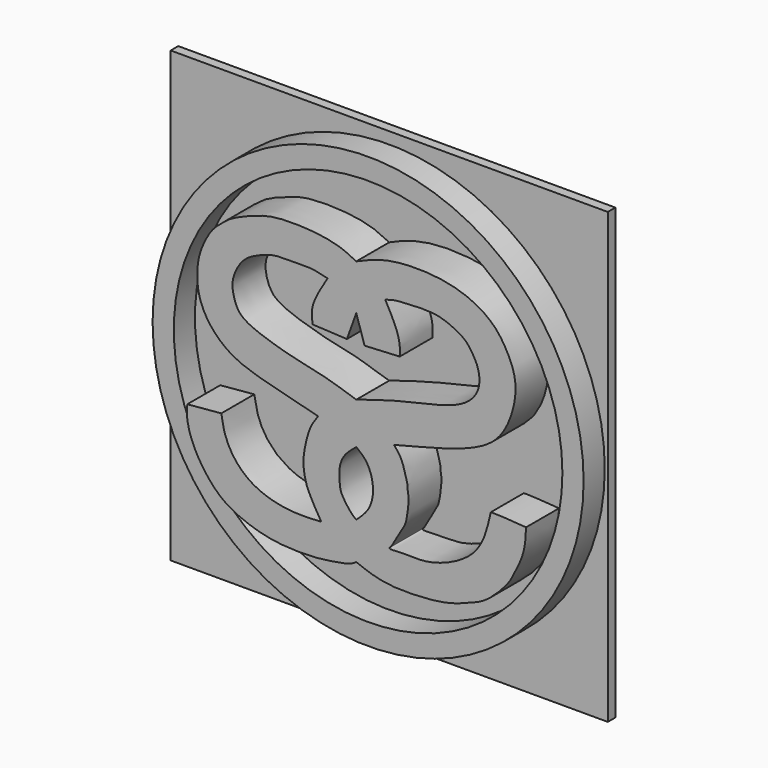
from build123d import *

# Parameters (mm, degrees)
F2_DEPTH = 12.192
F0_R     = 51.8159960218
F0_R_2   = 46.7143522427
F3_DEPTH = 8.636
F4_W     = 52.550945431
F4_H     = 107.9424871132
F4_W_2   = 52.5509491563
F5_DEPTH = 2.286


with BuildPart() as f2:
    # F1 (on Front) → F2 (new body)
    with BuildSketch(Plane.XZ):
        with BuildLine():
            add(Edge.make_bspline(
                [(0, 34.5519892871), (1.8636551367, 35.3682879789), (5.8624587577, 37.1198020334), (14.0515556016, 38.1297289695), (24.4370441691, 37.1954468039), (32.5199308373, 33.0254458176), (36.3462355524, 27.5668970525), (39.1498419, 20.9074591969), (36.9325163196, 11.8163155109), (32.8908786108, 6.4767150827), (26.4048755311, 3.3673698207), (19.1638661043, 1.2345521392), (12.6152715008, -0.4342548338), (9.0735172853, -1.3368155342)],
                knots=[0, 0, 0, 0, 0.0808101023, 0.1733924498, 0.2783212058, 0.3742662381, 0.4562013177, 0.5416025842, 0.6384026023, 0.7212377579, 0.805849764, 0.8949954214, 1, 1, 1, 1], degree=3))
            add(Edge.make_bspline(
                [(0, 34.5519892871), (-1.1805786957, 35.154116431), (-3.870472007, 36.526034951), (-10.4373018154, 37.7453348505), (-19.5412992264, 37.8401527719), (-24.2904752801, 36.376923106), (-29.9273966235, 34.1635085314), (-32.458794007, 32.0066774867), (-35.2055331247, 29.7154093668), (-37.8890127864, 24.0553858061), (-38.2765328975, 20.1535652977), (-38.1940426413, 15.9507278176), (-36.5403337735, 11.2818749594), (-33.0079028254, 7.0104879258), (-28.7965620817, 4.2981589294), (-23.7264390156, 2.4003928514), (-12.5123644542, -0.3063020827), (-10.0439856054, -0.9700598603), (-9.1785937548, -1.202767482)],
                knots=[0, 0, 0, 0, 0.0553075256, 0.1260156088, 0.2075084565, 0.2692905852, 0.334803653, 0.3837999273, 0.4346266679, 0.5017260102, 0.5559412564, 0.6105276622, 0.6706208836, 0.7342253921, 0.7932745479, 0.8583421756, 0.9503360163, 1, 1, 1, 1], degree=3))
            add(Edge.make_bspline(
                [(-9.1785937548, -1.202767482), (-9.845001483, -2.1190641409), (-11.324834039, -4.153802889), (-12.5822585435, -9.5375499396), (-12.8170646598, -12.8275421798), (-12.0704327469, -16.8687144004), (-10.2854667918, -20.21715554), (-9.0312879882, -22.2811018337), (-8.4140896797, -23.2967976481)],
                knots=[0, 0, 0, 0, 0.1598677995, 0.3550042478, 0.5097927259, 0.6767124276, 0.8409058244, 1, 1, 1, 1], degree=3))
            add(Edge.make_bspline(
                [(-32.4539020658, -8.1718796864), (-32.2437107397, -9.468656053), (-31.7956531111, -12.2329496834), (-29.5062684828, -17.0606713529), (-24.250316111, -21.7487802231), (-15.6530451707, -23.778242598), (-10.7547209753, -23.452467222), (-8.4140896797, -23.2967976481)],
                knots=[0, 0, 0, 0, 0.1602092529, 0.3415125605, 0.550526587, 0.7852221505, 1, 1, 1, 1], degree=3))
            add(Edge.make_bspline(
                [(-40.6272262335, -8.9019350708), (-37.9027848442, -8.658583276), (-35.178343455, -8.4152314812), (-32.4539020658, -8.1718796864)],
                knots=[0, 0, 0, 0, 8.2058642942, 8.2058642942, 8.2058642942, 8.2058642942], degree=3))
            add(Edge.make_bspline(
                [(-40.6272262335, -8.9019350708), (-40.7039255948, -9.8997054018), (-40.8879573905, -12.2937470539), (-38.9887081595, -18.3667007665), (-34.1604688217, -24.9664170941), (-29.7808537842, -27.9540761907), (-24.4667808828, -30.0704043775), (-18.5901521679, -31.3941922774), (-10.1765970791, -31.5810424479), (-4.7144720713, -30.6312893302), (-1.4432548208, -30.0632820351), (-0.42666285, -29.3697934955), (0, -29.0787369013)],
                knots=[0, 0, 0, 0, 0.079258525, 0.1901722312, 0.3166448276, 0.4181510198, 0.5216121212, 0.6311902517, 0.7597432605, 0.8651567625, 0.9434063994, 1, 1, 1, 1], degree=3))
            add(Edge.make_bspline(
                [(40.8171638846, -8.4643382579), (40.7381572513, -10.3886347037), (40.5818547594, -14.1955597309), (37.8007214389, -19.4731405672), (36.6885201937, -21.7714592565), (31.7726372213, -27.0288617791), (27.6387825515, -28.7435724779), (22.102705484, -30.8435558294), (15.0800879875, -31.5581391259), (6.3556985515, -31.5670864848), (2.0280278434, -29.8727396688), (0, -29.0787369013)],
                knots=[0, 0, 0, 0, 0.1109520826, 0.219501658, 0.295270297, 0.4147541267, 0.5138746024, 0.6228956869, 0.7459859702, 0.8809642508, 1, 1, 1, 1], degree=3))
            add(Edge.make_bspline(
                [(32.3493741453, -8.0170677975), (32.7560172129, -8.0061735838), (34.0423102648, -7.9717130151), (38.0657065377, -8.2642693827), (40.8171638846, -8.4643382579)],
                knots=[0, 0, 0, 0, 0.3161356326, 1, 1, 1, 1], degree=3))
            add(Edge.make_bspline(
                [(8.4034176543, -23.0798069388), (8.1716431348, -23.2808839836), (7.489829636, -23.8723944038), (10.8184358189, -23.5426576033), (13.4294921878, -23.6565616212), (17.31872678, -23.639786504), (22.578698228, -22.0248367485), (27.7738699264, -18.9079301104), (30.8878578174, -14.426891942), (31.8445724527, -10.2309945362), (32.3493741453, -8.0170677975)],
                knots=[0, 0, 0, 0, 0.0513085494, 0.15093489, 0.2615075902, 0.3844275026, 0.5344029929, 0.6903308064, 0.8366058934, 1, 1, 1, 1], degree=3))
            add(Edge.make_bspline(
                [(9.0735172853, -1.3368155342), (9.7061423309, -2.0843355969), (11.0208680345, -3.6378369122), (11.8395221763, -6.9969320444), (12.3803559262, -8.7094847063), (12.2073156715, -9.4392341122), (12.870261523, -11.6740653845), (12.1583492165, -15.1253047377), (12.048928336, -17.1494410568), (9.6917273766, -20.7396116302), (8.8023141426, -22.3552174443), (8.4034176543, -23.0798069388)],
                knots=[0, 0, 0, 0, 0.1220706164, 0.2536879911, 0.344786687, 0.4021461329, 0.5068555032, 0.6386515479, 0.7406218126, 0.8836704424, 1, 1, 1, 1], degree=3))
        make_face()
        with BuildLine():
            add(Edge.make_bspline(
                [(0, -4.7366642393), (-0.8923299318, -5.4519225199), (-2.6853114951, -6.8891094444), (-4.2840151362, -9.9813507511), (-3.9756274703, -14.1751850766), (-3.6863272327, -15.7550905834), (-1.4658460314, -19.0345296128), (-0.4271764166, -19.8149706478), (0, -20.1359447092)],
                knots=[0, 0, 0, 0, 0.1784962071, 0.358657036, 0.5518544442, 0.6796134014, 0.868233751, 1, 1, 1, 1], degree=3))
            add(Edge.make_bspline(
                [(0, -4.7366642393), (0.8178810071, -5.3781655006), (2.4957424384, -6.6941885103), (3.895115331, -9.9620274658), (4.2231264624, -13.6337500787), (3.0799665013, -17.2831269958), (1.0487220782, -19.1645663127), (0, -20.1359447092)],
                knots=[0, 0, 0, 0, 0.1860691729, 0.3817160272, 0.583005201, 0.7847075186, 1, 1, 1, 1], degree=3))
        make_face(mode=Mode.SUBTRACT)
        with BuildLine():
            Line((-2.2555692121, 17.3729152447), (0, 23.5926937312))
            Line((0, 23.5926937312), (2.0053184126, 17.3591729254))
            Line((2.0053184126, 17.3591729254), (2.2726688347, 17.3729152447))
            Line((2.2726688347, 17.3729152447), (10.448188521, 17.7931524813))
            add(Edge.make_bspline(
                [(10.448188521, 17.7931524813), (10.4877243033, 18.5459923798), (10.5754023875, 20.2155574197), (9.7251992605, 23.6826678169), (7.9666868287, 26.8970323069), (6.9718230516, 28.7155322731)],
                knots=[0, 0, 0, 0, 0.2628765565, 0.5829785448, 1, 1, 1, 1], degree=3))
            add(Edge.make_bspline(
                [(6.9718230516, 28.7155322731), (7.8123734401, 28.9839837268), (9.627078595, 29.5635566395), (13.6825187364, 29.4927544947), (14.9575104412, 29.7176313033), (19.3674595149, 29.7442916027), (23.0439312051, 28.3186159994), (26.3217788275, 26.5939647856), (28.0571479735, 24.0335753571), (29.5261603856, 21.3606014643), (29.8859960024, 17.113140494), (26.9766146333, 13.0601828898), (20.6414514245, 10.5905711333), (12.6709386277, 9.0378098477), (5.0545437914, 6.9177483188), (1.5631505037, 5.7877597681), (0, 5.2818465047)],
                knots=[0, 0, 0, 0, 0.0584910726, 0.1262792243, 0.1671287521, 0.2373257254, 0.3077930861, 0.373119716, 0.432733923, 0.4927463323, 0.5614910927, 0.6352832911, 0.7241131949, 0.8240596834, 0.9212288127, 1, 1, 1, 1], degree=3))
            add(Edge.make_bspline(
                [(-6.8892352283, 28.7155322731), (-8.2201023484, 29.0519884309), (-10.939968843, 29.7395971462), (-15.4874221077, 29.4019447428), (-19.629830645, 29.6875242869), (-23.7654185994, 28.1817151748), (-27.6311121872, 26.1458904623), (-30.0736408894, 21.1209659438), (-29.5841508675, 17.796372585), (-28.2477362759, 13.6057723203), (-21.5480221345, 11.1141143145), (-15.2357151238, 9.2486950088), (-8.0484787217, 7.9257025042), (-2.757095886, 6.1875287772), (0, 5.2818465047)],
                knots=[0, 0, 0, 0, 0.0748027458, 0.1528728744, 0.2275069981, 0.3033961467, 0.3799753925, 0.4636384969, 0.5302703853, 0.6029906495, 0.6983101371, 0.7940598334, 0.8926940643, 1, 1, 1, 1], degree=3))
            add(Edge.make_bspline(
                [(-10.5011761189, 17.7931524813), (-10.6701858263, 18.980308082), (-11.084665299, 21.891688942), (-8.4497359083, 26.1773867244), (-6.8892352283, 28.7155322731)],
                knots=[0, 0, 0, 0, 0.4077637581, 1, 1, 1, 1], degree=3))
            Line((-10.5011761189, 17.7931524813), (-2.2555692121, 17.3729152447))
        make_face(mode=Mode.SUBTRACT)
    extrude(amount=F2_DEPTH)


with BuildPart() as f3:
    # F0 (on Front) → F3 (new body)
    with BuildSketch(Plane.XZ):
        with Locations((0, 3.4718343522)):
            Circle(F0_R)
        with Locations((0, 3.4718343522)):
            Circle(F0_R_2, mode=Mode.SUBTRACT)
    extrude(amount=F3_DEPTH)


with BuildPart() as f5:
    # F4 (on Front) → F5 (new body)
    with BuildSketch(Plane.XZ):
        with Locations((-26.2754727155, 4.1030771099)):
            Rectangle(F4_W, F4_H)
        with Locations((26.2754745781, 4.1030771099)):
            Rectangle(F4_W_2, F4_H)
    extrude(amount=F5_DEPTH)


solid = Compound([f2.part, f3.part, f5.part])
